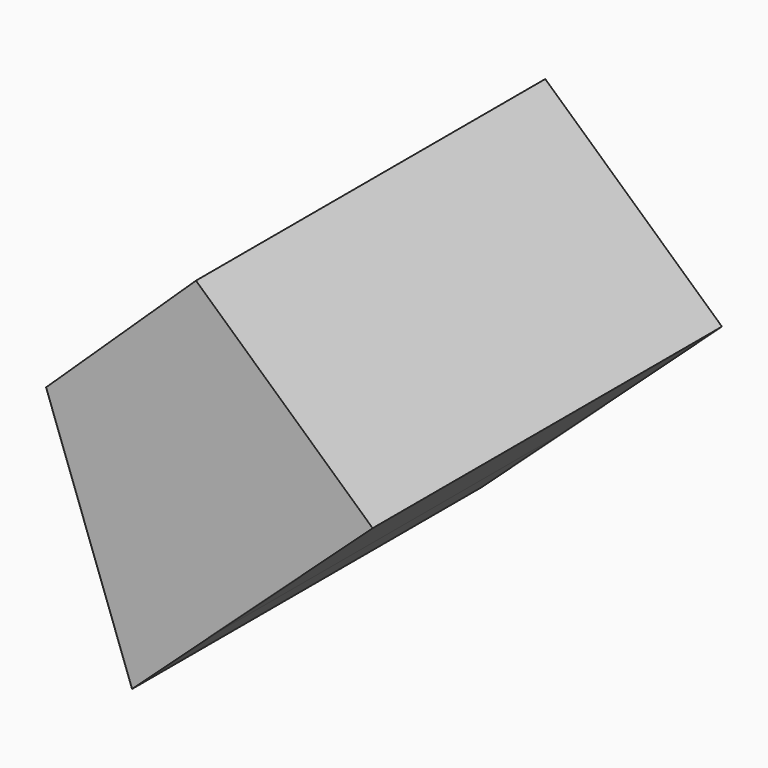
from build123d import *

# Parameters (mm, degrees)
F1_DEPTH = 100.2740859985
F3_D     = 7.5
F3_DEPTH = 2
F3_TIP   = 2.2532273214


with BuildPart() as f1:
    # F0 (on Front) → F1 (new body)
    with BuildSketch(Plane.XZ):
        Polygon((-8.5613747377, 8.1151898103), (-46.5092712761, 44.0853923477), (-27.2959015118, -9.0020827425), align=None)
        Polygon((-47.045001057, 45.5656397871), (-46.5092712761, 44.0853923477), (-8.5613747377, 8.1151898103), (27.9545485973, 41.4788834751), (-12.6136355102, 78.3473849297), align=None)
    extrude(amount=F1_DEPTH)

    # F3
    with Locations(Plane(origin=(-45.1239530897, 0, 47.3946495829), x_dir=(0.7242433012, 0, 0.6895445168), z_dir=(-0.6895445168, 0, 0.7242433012))):
        with Locations((21.8701027334, -45.7103922963)):
            Hole(F3_D / 2, depth=F3_DEPTH)
            with Locations((0, 0, -(F3_DEPTH + F3_TIP / 2))):  # 118° drill point
                Cone(0, F3_D / 2, F3_TIP, mode=Mode.SUBTRACT)


solid = f1.part
